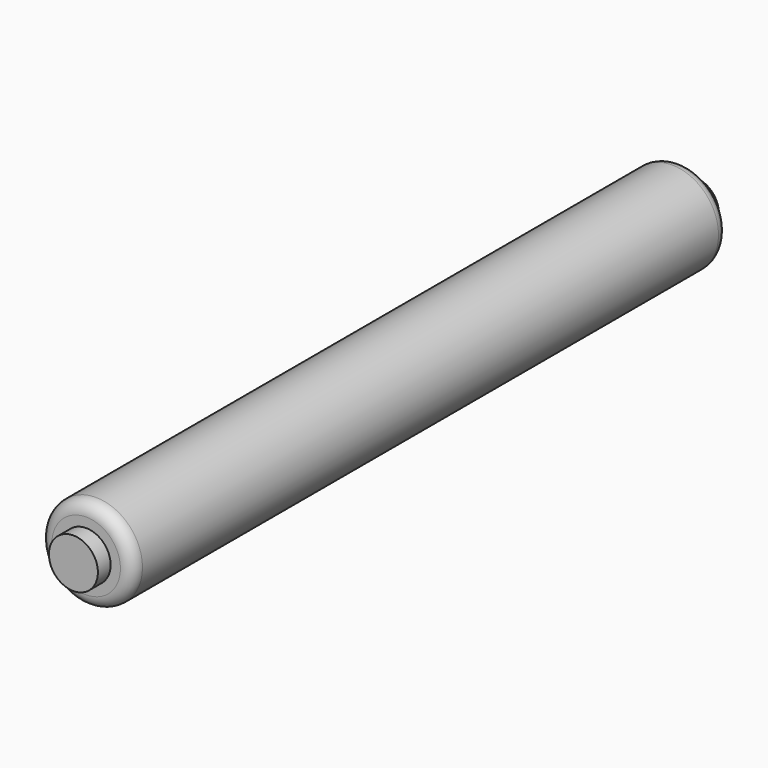
from build123d import *

# Parameters (mm, degrees)
F0_R     = 10
F1_DEPTH = 6.5
F2_R     = 19
F3_DEPTH = 304
F4_R     = 10
F5_DEPTH = 6.5
F7_R     = 5


with BuildPart() as f1:
    # F0 (on Front) → F1 (new body)
    with BuildSketch(Plane.XZ):
        Circle(F0_R)
    extrude(amount=F1_DEPTH)

    # F2 (on Front) → F3 (join)
    with BuildSketch(Plane.XZ):
        Circle(F2_R)
    extrude(amount=-F3_DEPTH)

    # F4 (on face) → F5 (join)
    with BuildSketch(Plane(origin=(0, 304, 0), x_dir=(-1, 0, 0), z_dir=(0, 1, 0))):
        Circle(F4_R)
    extrude(amount=F5_DEPTH)

    # F7
    f7_edges = [f1.edges().sort_by_distance(p)[0] for p in [
        (-19, 304, 0),
        (-19, 0, 0),
    ]]
    fillet(f7_edges, radius=F7_R)


solid = f1.part
